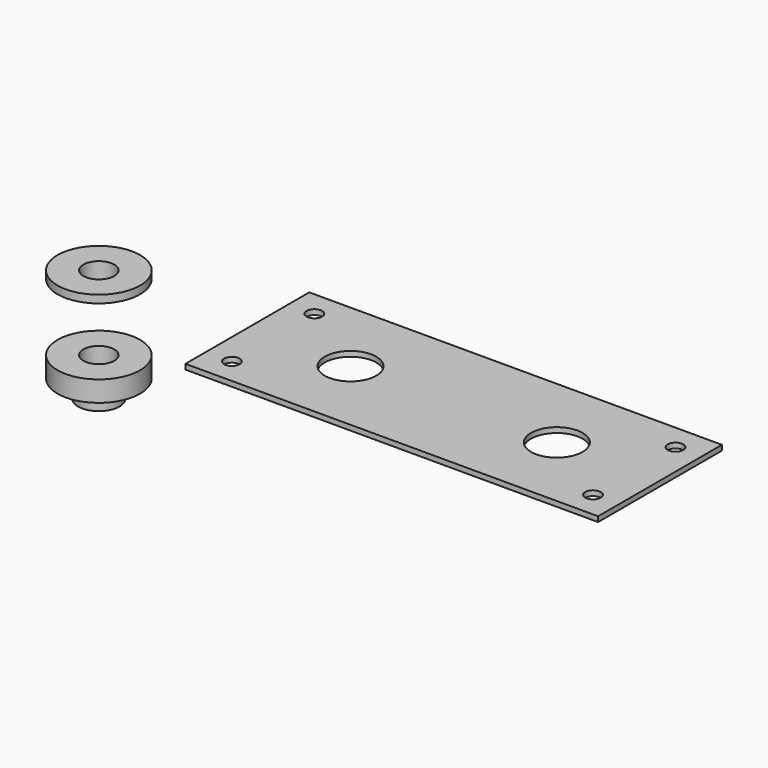
from build123d import *

# Parameters (mm, degrees)
F2_W     = 80
F2_H     = 30
F2_R     = 1.5
F2_R_2   = 5
F3_DEPTH = 1


with BuildPart() as f1:
    # F0 (on Front) → F1 (revolve)
    with BuildSketch(Plane.XZ):
        Polygon((-3, -2), (-3, 1.5), (-8, 1.5), (-8, 0), (-4, 0), (-4, -2), align=None)
    revolve(axis=Axis((0, 0, 2.077047), (0, 0, -1)))


with BuildPart() as f3:
    # F2 (on Top) → F3 (new body)
    with BuildSketch(Plane.XY):
        with Locations((68.786818, 0)):
            Rectangle(F2_W, F2_H)
        with Locations((33.786818, -10)):
            Circle(F2_R, mode=Mode.SUBTRACT)
        with Locations((103.786818, -10)):
            Circle(F2_R, mode=Mode.SUBTRACT)
        with Locations((48.786818, 0)):
            Circle(F2_R_2, mode=Mode.SUBTRACT)
        with Locations((33.786818, 10)):
            Circle(F2_R, mode=Mode.SUBTRACT)
        with Locations((88.786818, 0)):
            Circle(F2_R_2, mode=Mode.SUBTRACT)
        with Locations((103.786818, 10)):
            Circle(F2_R, mode=Mode.SUBTRACT)
    extrude(amount=F3_DEPTH)


with BuildPart() as f5:
    # F4 (on Front) → F5 (revolve)
    with BuildSketch(Plane.XZ):
        Polygon((-3, -20.464356), (-3, -12.964356), (-8, -12.964356), (-8, -16.964356), (-4, -16.964356), (-4, -20.464356), align=None)
    revolve(axis=Axis((0, 0, -17.545227), (0, 0, -1)))


solid = Compound([f1.part, f3.part, f5.part])
